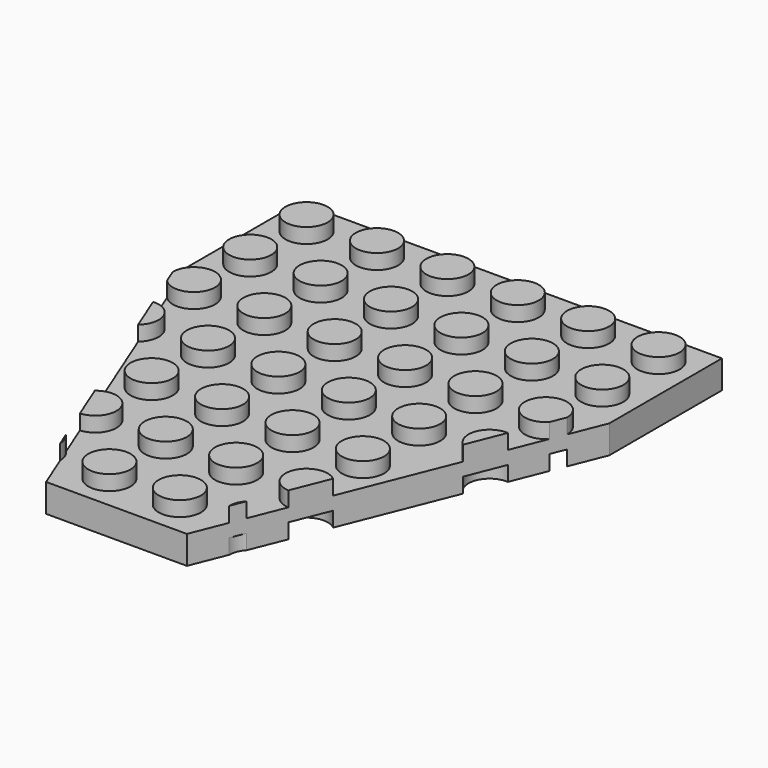
from build123d import *

# Parameters (mm, degrees)
F1_DEPTH  = 8
F3_W      = 8
F3_H      = 8
F3_R      = 2.4
F4_DEPTH  = 1.7
F5_R      = 2.4
F6_DEPTH  = 1.7
F17_W     = 169.7410433292
F17_H     = 17.4022987485
F18_DEPTH = 16.002
F19_W     = 57.4434348602
F19_H     = 35.758164084
F20_DEPTH = 48.006
F22_DEPTH = 25.4


with BuildPart() as f1:
    # F0 (on Front) → F1 (new body)
    with BuildSketch(Plane.XZ):
        Polygon((-2.4, 3.2), (-4, 3.2), (-4, 0), (4, 0), (4, 3.2), (2.4, 3.2), (2.4, 4.9), (-2.4, 4.9), align=None)
    extrude(amount=F1_DEPTH)

    # F3 (on plane+point) → F4 (cut, through all)
    with BuildSketch(Plane.XY.offset(4.9)):
        with Locations((0, -4)):
            Rectangle(F3_W, F3_H)
        with Locations((0, -4)):
            Circle(F3_R, mode=Mode.SUBTRACT)
    extrude(amount=-F4_DEPTH, mode=Mode.SUBTRACT)

    # F5 (on Top) → F6 (cut)
    with BuildSketch(Plane.XY):
        with Locations((0, -4)):
            Circle(F5_R)
    extrude(amount=F6_DEPTH, mode=Mode.SUBTRACT)

    # F8: F1 across plane


with BuildPart() as f1_1:
    add(f1.part)
    add(f1.part.mirror(Plane.YZ.offset(4)))

    # F10: F1 across plane


with BuildPart() as f1_2:
    add(f1_1.part)
    add(f1_1.part.mirror(Plane.YZ.offset(12)))

    # F12: F1 across plane


with BuildPart() as f1_3:
    add(f1_2.part)
    add(f1_2.part.mirror(Plane.YZ.offset(28)))

    # F13: F1 across face


with BuildPart() as f1_4:
    add(f1_3.part)
    add(f1_3.part.mirror(Plane(origin=(28, -8, 1.6), x_dir=(1, 0, 0), z_dir=(0, -1, 0))))

    # F14: F1 across face


with BuildPart() as f1_5:
    add(f1_4.part)
    add(f1_4.part.mirror(Plane(origin=(28, -16, 1.6), x_dir=(1, 0, 0), z_dir=(0, -1, 0))))

    # F15: F1 across face


with BuildPart() as f1_6:
    add(f1_5.part)
    add(f1_5.part.mirror(Plane(origin=(28, -32, 1.6), x_dir=(1, 0, 0), z_dir=(0, -1, 0))))

    # F16: F1 across face


with BuildPart() as f1_7:
    add(f1_6.part)
    add(f1_6.part.mirror(Plane(origin=(28, -64, 1.6), x_dir=(1, 0, 0), z_dir=(0, -1, 0))))

    # F17 (on face) → F18 (cut)
    with BuildSketch(Plane.YZ.offset(60)):
        with Locations((-64, 0)):
            Rectangle(F17_W, F17_H)
    extrude(amount=-F18_DEPTH, mode=Mode.SUBTRACT)

    # F19 (on face) → F20 (cut)
    with BuildSketch(Plane.XZ.offset(128)):
        with Locations((19.999, 3.2)):
            Rectangle(F19_W, F19_H)
    extrude(amount=-F20_DEPTH, mode=Mode.SUBTRACT)

    # F21 (on Top) → F22 (cut)
    with BuildSketch(Plane.XY):
        Polygon((-4, -16), (-4, -79.994), (43.998, -79.994), (43.998, -16), (28, -56), (12, -56), align=None)
    extrude(amount=F22_DEPTH, mode=Mode.SUBTRACT)


solid = f1_7.part
